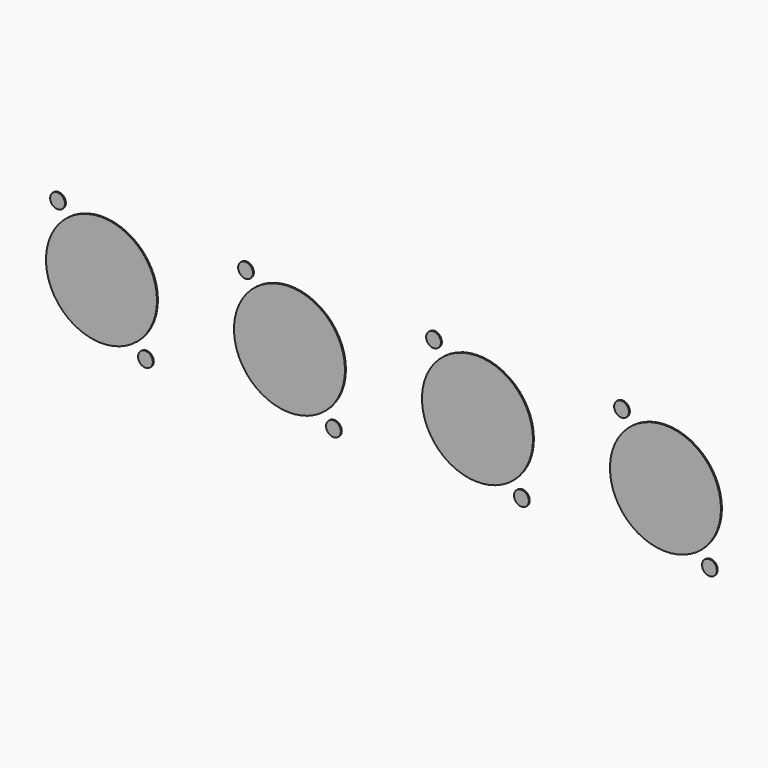
from build123d import *

# Parameters (mm, degrees)
F0_R     = 12.0015
F0_R_2   = 1.6002
F1_DEPTH = 0.254


with BuildPart() as f1:
    # F0 (on Front) → F1 (new body)
    with BuildSketch(Plane.XZ):
        with Locations((17.145, 0)):
            Circle(F0_R)
        with Locations((7.6454, 11.9888)):
            Circle(F0_R_2)
        with Locations((26.6446, -11.9888)):
            Circle(F0_R_2)
        with Locations((57.785, 0)):
            Circle(F0_R)
        with Locations((48.2854, 11.9888)):
            Circle(F0_R_2)
        with Locations((67.2846, -11.9888)):
            Circle(F0_R_2)
        with Locations((98.425, 0)):
            Circle(F0_R)
        with Locations((88.9254, 11.9888)):
            Circle(F0_R_2)
        with Locations((107.9246, -11.9888)):
            Circle(F0_R_2)
        with Locations((139.065, 0)):
            Circle(F0_R)
        with Locations((129.5654, 11.9888)):
            Circle(F0_R_2)
        with Locations((148.5646, -11.9888)):
            Circle(F0_R_2)
    extrude(amount=F1_DEPTH)


solid = f1.part
